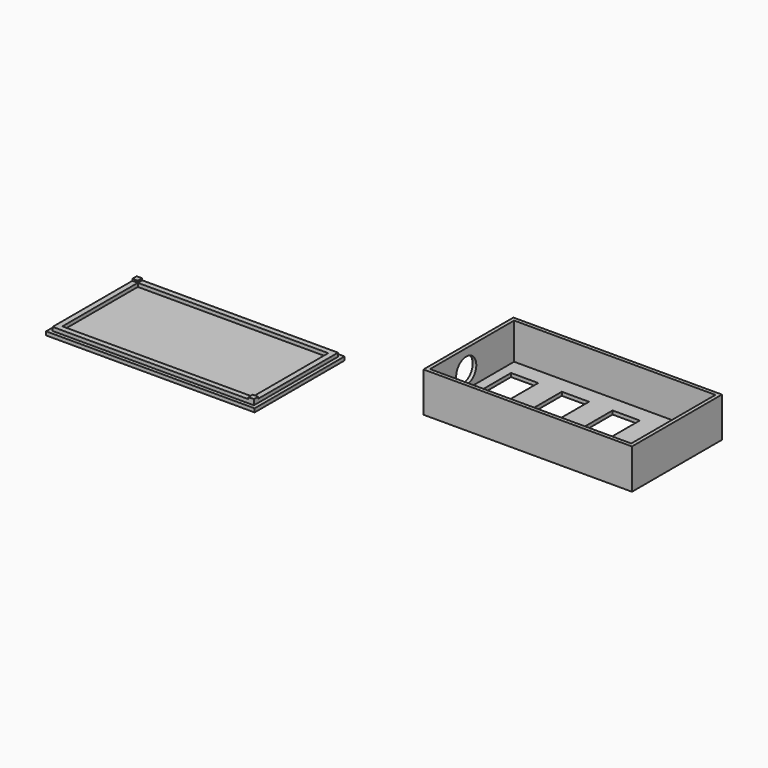
from build123d import *

# Parameters (mm, degrees)
F0_W      = 111
F0_H      = 58
F0_W_2    = 15
F0_H_2    = 40
F1_DEPTH  = 2
F0_W_3    = 115
F0_H_3    = 62
F2_DEPTH  = 22
F3_R      = 6.932096
F4_DEPTH  = 25
F5_W      = 115
F5_H      = 62
F5_W_2    = 111
F5_H_2    = 58
F6_DEPTH  = 2
F7_DEPTH  = 4
F8_W      = 105
F8_H      = 52
F9_DEPTH  = 2
F8_W_2    = 3
F8_H_2    = 3
F10_DEPTH = 1


with BuildPart() as f1:
    # F0 (on Top) → F1 (new body)
    with BuildSketch(Plane.XY):
        with Locations((57.5, 31)):
            Rectangle(F0_W, F0_H)
        with Locations((15, 31)):
            Rectangle(F0_W_2, F0_H_2, mode=Mode.SUBTRACT)
        with Locations((43, 31)):
            Rectangle(F0_W_2, F0_H_2, mode=Mode.SUBTRACT)
        with Locations((71, 31)):
            Rectangle(F0_W_2, F0_H_2, mode=Mode.SUBTRACT)
        with Locations((99, 31)):
            Rectangle(F0_W_2, F0_H_2, mode=Mode.SUBTRACT)
    extrude(amount=F1_DEPTH)

    # F0 (on Top) → F2 (join)
    with BuildSketch(Plane.XY):
        with Locations((57.5, 31)):
            Rectangle(F0_W_3, F0_H_3)
        with Locations((57.5, 31)):
            Rectangle(F0_W, F0_H, mode=Mode.SUBTRACT)
    extrude(amount=F2_DEPTH)

    # F3 (on face) → F4 (cut)
    with BuildSketch(Plane(origin=(0, 0, 0), x_dir=(0, -1, 0), z_dir=(-1, 0, 0))):
        with Locations((-27, 11)):
            Circle(F3_R)
    extrude(amount=-F4_DEPTH, mode=Mode.SUBTRACT)


with BuildPart() as f6:
    # F5 (on Top) → F6 (new body)
    with BuildSketch(Plane.XY):
        with Locations((-115.610846, -12.752371)):
            Rectangle(F5_W, F5_H)
        with Locations((-115.610846, -12.752371)):
            Rectangle(F5_W_2, F5_H_2, mode=Mode.SUBTRACT)
    extrude(amount=F6_DEPTH)

    # F5 (on Top) → F7 (join)
    with BuildSketch(Plane.XY):
        with Locations((-115.610846, -12.752371)):
            Rectangle(F5_W_2, F5_H_2)
    extrude(amount=F7_DEPTH)

    # F8 (on face) → F9 (cut)
    with BuildSketch(Plane.XY.offset(4)):
        with Locations((-115.610846, -12.752371)):
            Rectangle(F8_W, F8_H)
    extrude(amount=-F9_DEPTH, mode=Mode.SUBTRACT)

    # F8 (on face) → F10 (join)
    with BuildSketch(Plane.XY.offset(4)):
        with Locations((-61.610846, -40.252371)):
            Rectangle(F8_W_2, F8_H_2)
        with Locations((-169.610846, 14.747629)):
            Rectangle(F8_W_2, F8_H_2)
    extrude(amount=F10_DEPTH)


solid = Compound([f1.part, f6.part])
